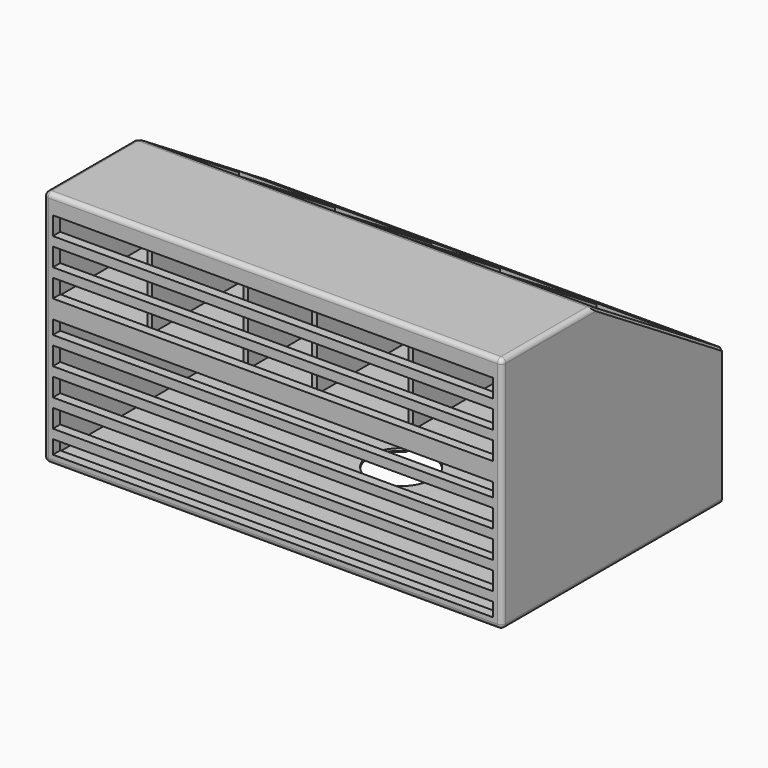
from build123d import *

# Parameters (mm, degrees)
SKETCH_W        = 100
SKETCH_H        = 60
PAD_DEPTH       = 30
SKETCH001_W     = 98
SKETCH001_H     = 28
POCKET_DEPTH    = 58
SKETCH002_W     = 96
SKETCH002_H     = 3
POCKET001_DEPTH = 60.001
SKETCH003_W     = 96
SKETCH003_H     = 4
POCKET002_DEPTH = 60.001
SKETCH007_W     = 96
SKETCH007_H     = 4
POCKET003_DEPTH = 60.001
SKETCH008_W     = 96
SKETCH008_H     = 4
POCKET004_DEPTH = 60.001
SKETCH009_W     = 96
SKETCH009_H     = 3
POCKET005_DEPTH = 60.001
POCKET006_DEPTH = 2
PAD001_DEPTH    = 100
SKETCH012_W     = 20
SKETCH012_H     = 20
SKETCH012_W_2   = 14
POCKET007_DEPTH = 50
SKETCH013_W     = 96
SKETCH013_H     = 4
POCKET008_DEPTH = 2
SKETCH014_W     = 96
SKETCH014_H     = 4
POCKET009_DEPTH = 2
SKETCH015_W     = 96
SKETCH015_H     = 4
POCKET010_DEPTH = 2
FILLET_R        = 1
CHAMFER_SIZE    = 0.5
CHAMFER001_SIZE = 0.2
CHAMFER002_SIZE = 0.2
CHAMFER003_SIZE = 0.2
FILLET001_R     = 0.5
CHAMFER004_SIZE = 0.5


with BuildPart() as part:
    # Sketch → Pad (new body)
    with BuildSketch(Plane.XY):
        Rectangle(SKETCH_W, SKETCH_H)
    extrude(amount=PAD_DEPTH)

    # Sketch001 → Pocket (cut)
    with BuildSketch(Plane.XZ.offset(-30)):
        with Locations((0, 15)):
            Rectangle(SKETCH001_W, SKETCH001_H)
    extrude(amount=POCKET_DEPTH, mode=Mode.SUBTRACT)

    # Sketch002 → Pocket001 (cut, through all)
    with BuildSketch(Plane.XZ.offset(30)):
        with Locations((0, 26.5)):
            Rectangle(SKETCH002_W, SKETCH002_H)
    extrude(amount=-POCKET001_DEPTH, mode=Mode.SUBTRACT)

    # Sketch003 → Pocket002 (cut, through all)
    with BuildSketch(Plane.XZ.offset(30)):
        with Locations((0, 21)):
            Rectangle(SKETCH003_W, SKETCH003_H)
    extrude(amount=-POCKET002_DEPTH, mode=Mode.SUBTRACT)

    # Sketch007 → Pocket003 (cut, through all)
    with BuildSketch(Plane.XZ.offset(30)):
        with Locations((0, 15)):
            Rectangle(SKETCH007_W, SKETCH007_H)
    extrude(amount=-POCKET003_DEPTH, mode=Mode.SUBTRACT)

    # Sketch008 → Pocket004 (cut, through all)
    with BuildSketch(Plane.XZ.offset(30)):
        with Locations((0, 9)):
            Rectangle(SKETCH008_W, SKETCH008_H)
    extrude(amount=-POCKET004_DEPTH, mode=Mode.SUBTRACT)

    # Sketch009 → Pocket005 (cut, through all)
    with BuildSketch(Plane.XZ.offset(30)):
        with Locations((0, 3.5)):
            Rectangle(SKETCH009_W, SKETCH009_H)
    extrude(amount=-POCKET005_DEPTH, mode=Mode.SUBTRACT)

    # Sketch010 → Pocket006 (cut)
    with BuildSketch(Plane.XY):
        with BuildLine():
            Line((-3.5, 21.062178), (3.5, 21.062178))
            Line((3.5, 21.062178), (3.5, 11.062178))
            ThreePointArc((-3.5, 11.062178), (0, -2), (3.5, 11.062178))
            Line((-3.5, 11.062178), (-3.5, 21.062178))
        make_face()
    extrude(amount=POCKET006_DEPTH, mode=Mode.SUBTRACT)

    # Sketch011 → Pad001 (join)
    with BuildSketch(Plane.YZ.offset(50)):
        Polygon((-30, 52), (-30, 30), (30, 30), (-5, 52), align=None)
    extrude(amount=-PAD001_DEPTH)

    # Sketch012 → Pocket007 (cut)
    with BuildSketch(Plane.XZ.offset(28)):
        with Locations((39, 41)):
            Rectangle(SKETCH012_W, SKETCH012_H)
        with Locations((18, 41)):
            Rectangle(SKETCH012_W, SKETCH012_H)
        with Locations((-39, 41)):
            Rectangle(SKETCH012_W, SKETCH012_H)
        with Locations((-18, 41)):
            Rectangle(SKETCH012_W, SKETCH012_H)
        with Locations((0, 41)):
            Rectangle(SKETCH012_W_2, SKETCH012_H)
    extrude(amount=-POCKET007_DEPTH, mode=Mode.SUBTRACT)

    # Sketch013 → Pocket008 (cut)
    with BuildSketch(Plane.XZ.offset(30)):
        with Locations((0, 34)):
            Rectangle(SKETCH013_W, SKETCH013_H)
    extrude(amount=-POCKET008_DEPTH, mode=Mode.SUBTRACT)

    # Sketch014 → Pocket009 (cut)
    with BuildSketch(Plane.XZ.offset(30)):
        with Locations((0, 40)):
            Rectangle(SKETCH014_W, SKETCH014_H)
    extrude(amount=-POCKET009_DEPTH, mode=Mode.SUBTRACT)

    # Sketch015 → Pocket010 (cut)
    with BuildSketch(Plane.XZ.offset(30)):
        with Locations((0, 46)):
            Rectangle(SKETCH015_W, SKETCH015_H)
    extrude(amount=-POCKET010_DEPTH, mode=Mode.SUBTRACT)

    # Fillet
    fillet_edges = [part.edges().sort_by_distance(p)[0] for p in [
        (-50, -17.5, 52),
        (50, -17.5, 52),
        (50, 0, 0),
        (50, -30, 26),
        (0, -30, 52),
        (0, -30, 0),
        (-50, -30, 26),
        (-50, 0, 0),
    ]]
    fillet(fillet_edges, radius=FILLET_R)

    # Chamfer
    chamfer_edges = [part.edges().sort_by_distance(p)[0] for p in [
        (50, 13.295455, 40.5),
        (-50, 13.295455, 40.5),
    ]]
    chamfer(chamfer_edges, length=CHAMFER_SIZE)

    # Chamfer001
    chamfer001_edges = [part.edges().sort_by_distance(p)[0] for p in [
        (-29, 9.295455, 43.014286),
        (-28, 9.295455, 43.014286),
    ]]
    chamfer(chamfer001_edges, length=CHAMFER001_SIZE)

    # Chamfer002
    chamfer002_edges = [part.edges().sort_by_distance(p)[0] for p in [
        (7, 9.295455, 43.014286),
        (8, 9.295455, 43.014286),
        (-8, 9.295455, 43.014286),
        (-7, 9.295455, 43.014286),
        (28, 9.295455, 43.014286),
        (29, 9.295455, 43.014286),
    ]]
    chamfer(chamfer002_edges, length=CHAMFER002_SIZE)

    # Chamfer003
    chamfer003_edges = [part.edges().sort_by_distance(p)[0] for p in [
        (49, 9.295455, 43.014286),
        (-49, 9.295455, 43.014286),
    ]]
    chamfer(chamfer003_edges, length=CHAMFER003_SIZE)

    # Fillet001
    fillet001_edges = [part.edges().sort_by_distance(p)[0] for p in [
        (49, 30, 15),
        (0, 30, 29),
        (0, 30, 1),
        (-49, 30, 15),
    ]]
    fillet(fillet001_edges, radius=FILLET001_R)

    # Chamfer004
    chamfer004_edges = [part.edges().sort_by_distance(p)[0] for p in [
        (0, -2, 0),
        (3.5, 16.062178, 0),
        (-3.5, 16.062178, 0),
    ]]
    chamfer(chamfer004_edges, length=CHAMFER004_SIZE)


solid = part.part
